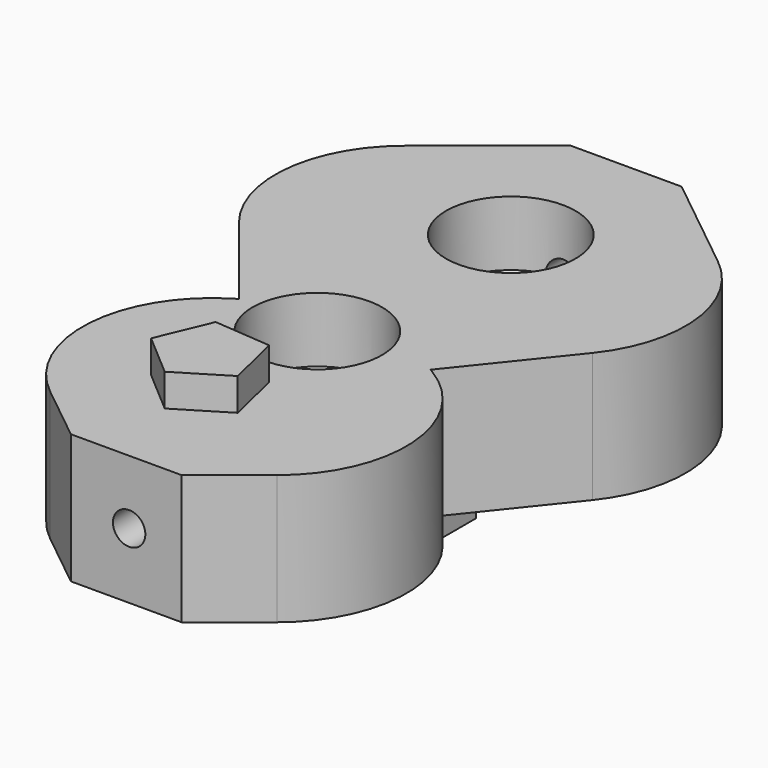
from build123d import *

# Parameters (mm, degrees)
F1_DEPTH  = 25.4
F3_D      = 25.4
F3_DEPTH  = 12.7
F3_TIP    = 7.6309298617
F5_DEPTH  = 6.35
F7_D      = 6.35
F7_DEPTH  = 254
F7_TIP    = 1.9077324654
F9_DEPTH  = 6.35
F11_DEPTH = 6.35


with BuildPart() as f1:
    # F0 (on Top) → F1 (new body)
    with BuildSketch(Plane.XY):
        with BuildLine():
            Line((4.4096680358, 46.9340346754), (-17.3225291073, 46.9340346754))
            Line((-17.3225291073, 46.9340346754), (-37.1629750587, 31.0344995595))
            ThreePointArc((-37.1629750587, 31.0344995595), (-46.5261500129, 13.9975710547), (-41.0999868401, -4.6701211252))
            Line((-41.0999868401, -4.6701211252), (-25.2276921751, -24.4765747183))
            Line((-25.2276921751, -24.4765747183), (-26.0085705919, -24.951683338))
            ThreePointArc((-26.0085705919, -24.951683338), (-38.1533474778, -45.0139671836), (-28.6899548002, -66.4717172459))
            Line((-28.6899548002, -66.4717172459), (-17.3225291073, -75.5812302232))
            Line((-17.3225291073, -75.5812302232), (4.4096680358, -75.5812302232))
            Line((4.4096680358, -75.5812302232), (15.7770905265, -66.4717187425))
            ThreePointArc((15.7770905265, -66.4717187425), (25.2404819789, -45.0139682034), (13.0957040513, -24.9516850564))
            Line((13.0957040513, -24.9516850564), (12.3148227185, -24.4765747183))
            Line((12.3148227185, -24.4765747183), (28.1871199764, -4.6701202151))
            ThreePointArc((28.1871199764, -4.6701202151), (33.6132842187, 13.9975716539), (24.2501102406, 31.0345006951))
            Line((24.2501102406, 31.0345006951), (4.4096680358, 46.9340346754))
        make_face()
    extrude(amount=F1_DEPTH)

    # F3
    with Locations(Plane.XY.offset(25.4)):
        with Locations((-6.0439212248, 18.131762743), (-9.2097837478, -25.3269076347)):
            Hole(F3_D / 2, depth=F3_DEPTH)
            with Locations((0, 0, -(F3_DEPTH + F3_TIP / 2))):  # 118° drill point
                Cone(0, F3_D / 2, F3_TIP, mode=Mode.SUBTRACT)

    # F4 (on face) → F5 (join)
    with BuildSketch(Plane.XY.offset(25.4)):
        Polygon((-11.431774831, -59.9473722219), (-1.8083986281, -54.0896646738), (-4.4056227723, -43.1271588469), (-15.6341717727, -42.2096651921), (-19.9765725551, -52.6051287559), align=None)
    extrude(amount=F5_DEPTH)

    # F7
    with Locations(Plane.XZ.offset(75.5812302232)):
        with Locations((-5.8986586519, 12.8560494632)):
            Hole(F7_D / 2, depth=F7_DEPTH)
            with Locations((0, 0, -(F7_DEPTH + F7_TIP / 2))):  # 118° drill point
                Cone(0, F7_D / 2, F7_TIP, mode=Mode.SUBTRACT)

    # F8 (on face) → F9 (join)
    with BuildSketch(Plane(origin=(0, 0, 0), x_dir=(1, 0, 0), z_dir=(0, 0, -1))):
        Polygon((-7.4111339636, -24.9558594078), (0, -25.5608521402), (0, -16.788488254), (8.3186198026, -16.788488254), (8.3663046534, -11.2136853721), (0, -11.1421230232), (0, 0), (-7.4111339636, 0), (-7.4111339636, -11.1421230232), (-14.6710202098, -11.1421230232), (-14.6710202098, -16.788488254), (-7.4111339636, -16.788488254), align=None)
    extrude(amount=F9_DEPTH)

    # F10 (on face) → F11 (join)
    with BuildSketch(Plane(origin=(0, 0, 0), x_dir=(1, 0, 0), z_dir=(0, 0, -1))):
        Polygon((-14.6710202098, 12.5811770558), (10.4360869154, 11.0410777852), (10.4360869154, 21.3259179145), (-14.6710202098, 21.3259179145), align=None)
    extrude(amount=F11_DEPTH)


solid = f1.part
